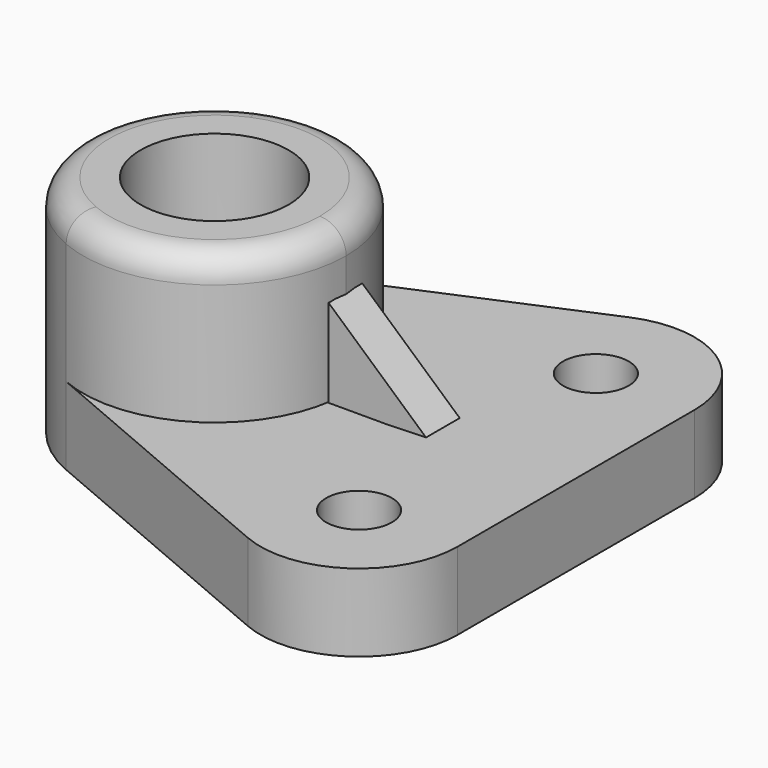
from build123d import *

# Parameters (mm, degrees)
F0_R     = 14.2875
F1_DEPTH = 43.434
F0_R_2   = 6.35
F3_DEPTH = 14.986
F5_DEPTH = 4.064
F6_R     = 5.08


with BuildPart() as f1:
    # F0 (on Top) → F1 (new body)
    with BuildSketch(Plane.XY):
        with BuildLine():
            ThreePointArc((-12.11621, 0), (-23.516123, 21.193338), (-47.482947, 23.36288))
            ThreePointArc((-47.482947, 23.36288), (-62.91621, 0), (-47.482947, -23.36288))
            ThreePointArc((-47.482947, -23.36288), (-23.516123, -21.193338), (-12.11621, 0))
        make_face()
        with Locations((-37.51621, 0)):
            Circle(F0_R, mode=Mode.SUBTRACT)
    extrude(amount=F1_DEPTH)

    # F6
    f6_edges = [f1.edges().sort_by_distance(p)[0] for p in [
        (-27.549474, -23.36288, 43.434),
    ]]
    fillet(f6_edges, radius=F6_R)


with BuildPart() as f3:
    # F0 (on Top) → F3 (new body)
    with BuildSketch(Plane.XY):
        with BuildLine():
            Line((32.257856, -28.568001), (32.257856, 28.568001))
            ThreePointArc((32.257856, 28.568001), (23.715376, 44.449147), (5.755928, 46.074885))
            Line((5.755928, 46.074885), (-47.482947, 23.36288))
            ThreePointArc((-47.482947, 23.36288), (-23.516123, 21.193338), (-12.11621, 0))
            ThreePointArc((-12.11621, 0), (-23.516123, -21.193338), (-47.482947, -23.36288))
            Line((-47.482947, -23.36288), (5.755928, -46.074885))
            ThreePointArc((5.755928, -46.074885), (23.715376, -44.449147), (32.257856, -28.568001))
        make_face()
        with Locations((13.224464, -28.568001)):
            Circle(F0_R_2, mode=Mode.SUBTRACT)
        with Locations((13.224464, 28.568001)):
            Circle(F0_R_2, mode=Mode.SUBTRACT)
    extrude(amount=F3_DEPTH)


with BuildPart() as f5:
    # F4 (on Front) → F5 (new body, symmetric)
    with BuildSketch(Plane.XZ):
        Polygon((-12.259597, 14.656209), (6.544597, 15.209274), (-12.259597, 31.985562), align=None)
    extrude(amount=F5_DEPTH, both=True)


solid = Compound([f1.part, f3.part, f5.part])
